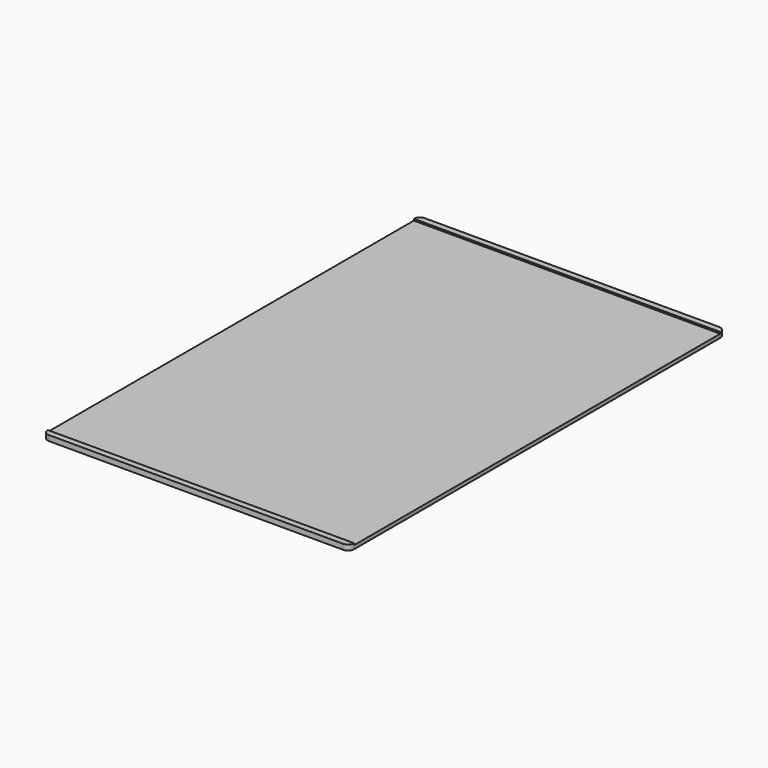
from build123d import *

# Parameters (mm, degrees)
F1_DEPTH = 3.302
F2_W     = 190.5
F2_H     = 284.48
F3_DEPTH = 1.016


with BuildPart() as f1:
    # F0 (on Top) → F1 (new body)
    with BuildSketch(Plane.XY):
        with BuildLine():
            Line((91.44, 146.05), (-91.44, 146.05))
            ThreePointArc((-91.44, 146.05), (-94.134077, 144.934077), (-95.25, 142.24))
            Line((-95.25, 142.24), (-95.25, -142.24))
            ThreePointArc((-95.25, -142.24), (-94.134077, -144.934077), (-91.44, -146.05))
            Line((-91.44, -146.05), (91.44, -146.05))
            ThreePointArc((91.44, -146.05), (94.134077, -144.934077), (95.25, -142.24))
            Line((95.25, -142.24), (95.25, 142.24))
            ThreePointArc((95.25, 142.24), (94.134077, 144.934077), (91.44, 146.05))
        make_face()
    extrude(amount=F1_DEPTH)

    # F2 (on face) → F3 (cut)
    with BuildSketch(Plane.XY.offset(3.302)):
        Rectangle(F2_W, F2_H)
    extrude(amount=-F3_DEPTH, mode=Mode.SUBTRACT)


solid = f1.part
